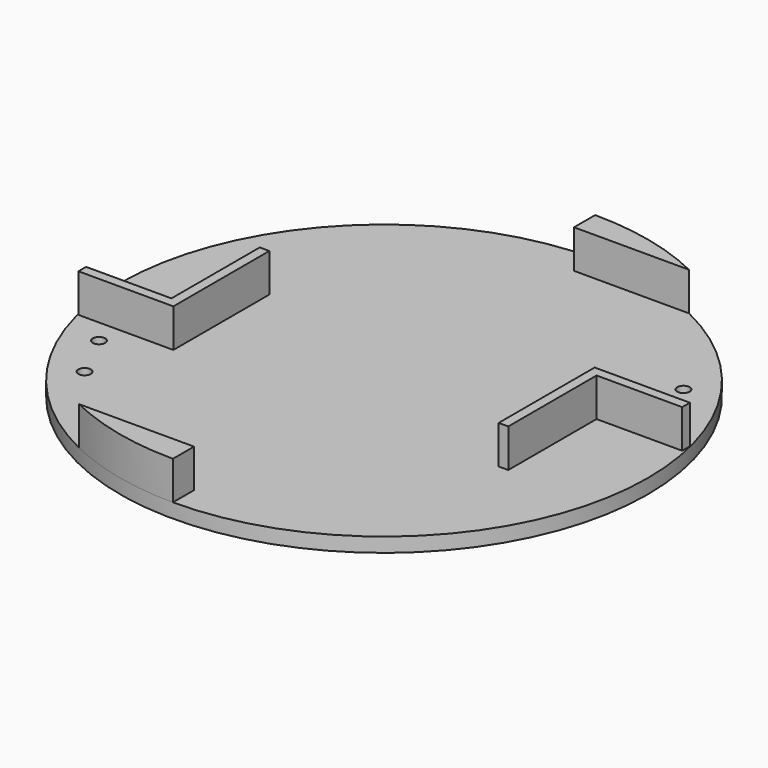
from build123d import *

# Parameters (mm, degrees)
SKETCH_R     = 55
PAD_DEPTH    = 3
PAD001_DEPTH = 8
PAD002_DEPTH = 8
SKETCH003_R  = 1.3
POCKET_DEPTH = 5


with BuildPart() as part:
    # Sketch → Pad (new body)
    with BuildSketch(Plane.XY):
        Circle(SKETCH_R)
    extrude(amount=PAD_DEPTH)

    # Sketch001 (on Face3 of Pad) → Pad001 (join)
    with BuildSketch(Plane.XY.offset(3)):
        Polygon((33.500008, 0), (33.500008, 13), (53.345406, 13), (53.345406, 11), (35.5, 11), (35.5, -0.005684), (35.5, -12), (33.500008, -12), align=None)
        Polygon((-33.5, 0), (-33.5, -13), (-53.293575, -13), (-53.293575, -11), (-35.5, -11), (-35.5, 0.001212), (-35.5, 12), (-33.5, 12), align=None)
    extrude(amount=PAD001_DEPTH)

    # Sketch002 (on Face3 of Pad001) → Pad002 (join)
    with BuildSketch(Plane.XY.offset(3)):
        with BuildLine():
            ThreePointArc((-23.973944, -49.5), (-12.298374, -53.607369), (0, -55))
            Line((0, -49.5), (0, -55))
            Line((-23.973944, -49.5), (0, -49.5))
        make_face()
        with BuildLine():
            ThreePointArc((23.973944, 49.5), (12.298374, 53.607369), (0, 55))
            Line((0, 49.5), (0, 55))
            Line((23.973944, 49.5), (0, 49.5))
        make_face()
    extrude(amount=PAD002_DEPTH)

    # Sketch003 (on Face3 of Pad002) → Pocket (cut)
    with BuildSketch(Plane.XY.offset(3)):
        with Locations((-45, -18)):
            Circle(SKETCH003_R)
        with Locations((45, 18)):
            Circle(SKETCH003_R)
        with Locations((-40, -28)):
            Circle(SKETCH003_R)
        with Locations((40, 28)):
            Circle(SKETCH003_R)
    extrude(amount=-POCKET_DEPTH, mode=Mode.SUBTRACT)


solid = part.part
